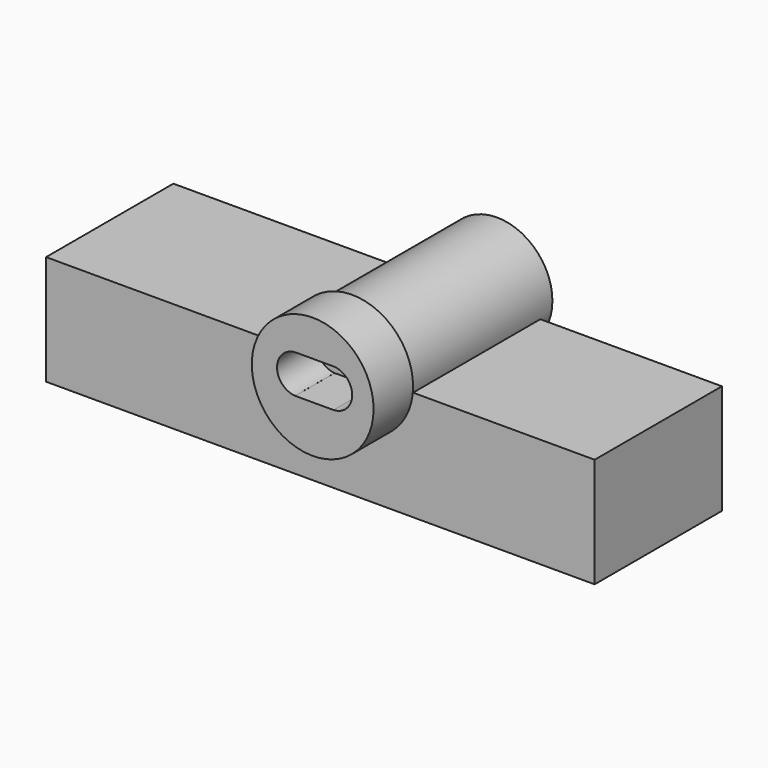
from build123d import *

# Parameters (mm, degrees)
BOX008_W               = 100
BOX008_H               = 29
BOX008_DEPTH           = 20
CYLINDER002_R          = 3.5
CYLINDER002_DEPTH      = 12
CYLINDER002_ROLL_ANGLE = 90
CYLINDER003_R          = 3.5
CYLINDER003_DEPTH      = 12
CYLINDER003_ROLL_ANGLE = 90
BOX009_W               = 7
BOX009_H               = 12
BOX009_DEPTH           = 7
BOX002_W               = 8.6
BOX002_H               = 8
BOX002_DEPTH           = 2.5
BOX001_W               = 15
BOX001_H               = 19
BOX001_DEPTH           = 1.8
BOX004_W               = 10
BOX004_H               = 15
BOX004_DEPTH           = 3
BOX003_W               = 15
BOX003_H               = 6
BOX003_DEPTH           = 3
BOX_W                  = 15
BOX_H                  = 27
BOX_DEPTH              = 1.8
BOX007_W               = 2.5
BOX007_H               = 6
BOX007_DEPTH           = 1
BOX005_W               = 15
BOX005_H               = 6
BOX005_DEPTH           = 3
BOX006_W               = 2.5
BOX006_H               = 6
BOX006_DEPTH           = 1
CYLINDER_R             = 10.1
CYLINDER_DEPTH         = 33
CYLINDER_ROLL_ANGLE    = -90
CYLINDER001_R          = 11.1
CYLINDER001_DEPTH      = 9
CYLINDER001_ROLL_ANGLE = -90
BOX022_W               = 100
BOX022_H               = 29
BOX022_DEPTH           = 20
BOX012_W               = 100
BOX012_H               = 100
BOX012_DEPTH           = 40
BOX010_W               = 100
BOX010_H               = 100
BOX010_DEPTH           = 40
BOX011_W               = 100
BOX011_H               = 29
BOX011_DEPTH           = 20
CYLINDER004_R          = 3.5
CYLINDER004_DEPTH      = 12
CYLINDER004_ROLL_ANGLE = 90
CYLINDER007_R          = 3.5
CYLINDER007_DEPTH      = 12
CYLINDER007_ROLL_ANGLE = 90
BOX023_W               = 20
BOX023_H               = 12
BOX023_DEPTH           = 7
BOX016_W               = 8.6
BOX016_H               = 8
BOX016_DEPTH           = 2.5
BOX015_W               = 15
BOX015_H               = 19
BOX015_DEPTH           = 1.8
BOX018_W               = 10
BOX018_H               = 15
BOX018_DEPTH           = 3
BOX017_W               = 15
BOX017_H               = 6
BOX017_DEPTH           = 3
BOX014_W               = 15
BOX014_H               = 27
BOX014_DEPTH           = 1.8
BOX021_W               = 2.5
BOX021_H               = 6
BOX021_DEPTH           = 1
BOX019_W               = 15
BOX019_H               = 6
BOX019_DEPTH           = 3
BOX020_W               = 2.5
BOX020_H               = 6
BOX020_DEPTH           = 1
CYLINDER005_R          = 10.1
CYLINDER005_DEPTH      = 33
CYLINDER005_ROLL_ANGLE = -90
CYLINDER006_R          = 11.1
CYLINDER006_DEPTH      = 10
CYLINDER006_ROLL_ANGLE = -90


with BuildPart() as box008:
    # Box008 → Box008 (new body)
    with BuildSketch(Plane(origin=(-50, 1, -20), x_dir=(1, 0, 0), z_dir=(0, 0, 1))):
        with Locations((50, 14.5)):
            Rectangle(BOX008_W, BOX008_H)
    extrude(amount=BOX008_DEPTH)


with BuildPart() as cylinder002:
    # Cylinder002 → Cylinder002 (new body)
    with BuildSketch(Plane.XY):
        Circle(CYLINDER002_R)
    extrude(amount=CYLINDER002_DEPTH)


with BuildPart() as cylinder002_1:
    # Cylinder002 roll: moved
    add(cylinder002.part.rotate(Axis((0, 0, 0), (1, 0, 0)), CYLINDER002_ROLL_ANGLE))


with BuildPart() as cylinder002_2:
    # Cylinder002 placement: moved
    add(cylinder002_1.part.moved(Location((4, 0, 3))))


with BuildPart() as cylinder003:
    # Cylinder003 → Cylinder003 (new body)
    with BuildSketch(Plane.XY):
        Circle(CYLINDER003_R)
    extrude(amount=CYLINDER003_DEPTH)


with BuildPart() as cylinder003_1:
    # Cylinder003 roll: moved
    add(cylinder003.part.rotate(Axis((0, 0, 0), (1, 0, 0)), CYLINDER003_ROLL_ANGLE))


with BuildPart() as cylinder003_2:
    # Cylinder003 placement: moved
    add(cylinder003_1.part.moved(Location((10.7, 0, 3))))


with BuildPart() as fusion002:
    # Box009 → Box009 (new body)
    with BuildSketch(Plane(origin=(3.8, -12, -0.5), x_dir=(1, 0, 0), z_dir=(0, 0, 1))):
        with Locations((3.5, 6)):
            Rectangle(BOX009_W, BOX009_H)
    extrude(amount=BOX009_DEPTH)

    # Fusion002: union Cylinder002, Cylinder003
    add(cylinder002_2.part)
    add(cylinder003_2.part)


with BuildPart() as fusion002_1:
    # Fusion002 placement: moved
    add(fusion002.part.moved(Location((0, -0.5, 0))))


with BuildPart() as box002:
    # Box002 → Box002 (new body)
    with BuildSketch(Plane(origin=(3, -2, 1.8), x_dir=(1, 0, 0), z_dir=(0, 0, 1))):
        with Locations((4.3, 4)):
            Rectangle(BOX002_W, BOX002_H)
    extrude(amount=BOX002_DEPTH)


with BuildPart() as box001:
    # Box001 → Box001 (new body)
    with BuildSketch(Plane(origin=(0, 7, 1.8), x_dir=(1, 0, 0), z_dir=(0, 0, 1))):
        with Locations((7.5, 9.5)):
            Rectangle(BOX001_W, BOX001_H)
    extrude(amount=BOX001_DEPTH)


with BuildPart() as box004:
    # Box004 → Box004 (new body)
    with BuildSketch(Plane(origin=(2.5, 22, -3), x_dir=(1, 0, 0), z_dir=(0, 0, 1))):
        with Locations((5, 7.5)):
            Rectangle(BOX004_W, BOX004_H)
    extrude(amount=BOX004_DEPTH)


with BuildPart() as box003:
    # Box003 → Box003 (new body)
    with BuildSketch(Plane(origin=(0, 16, -3), x_dir=(1, 0, 0), z_dir=(0, 0, 1))):
        with Locations((7.5, 3)):
            Rectangle(BOX003_W, BOX003_H)
    extrude(amount=BOX003_DEPTH)


with BuildPart() as box:
    # Box → Box (new body)
    with BuildSketch(Plane.XY):
        with Locations((7.5, 13.5)):
            Rectangle(BOX_W, BOX_H)
    extrude(amount=BOX_DEPTH)


with BuildPart() as box007:
    # Box007 → Box007 (new body)
    with BuildSketch(Plane(origin=(12.5, 0, 1.8), x_dir=(1, 0, 0), z_dir=(0, 0, 1))):
        with Locations((1.25, 3)):
            Rectangle(BOX007_W, BOX007_H)
    extrude(amount=BOX007_DEPTH)


with BuildPart() as box005:
    # Box005 → Box005 (new body)
    with BuildSketch(Plane.XY.offset(-3)):
        with Locations((7.5, 3)):
            Rectangle(BOX005_W, BOX005_H)
    extrude(amount=BOX005_DEPTH)


with BuildPart() as fusion:
    # Box006 → Box006 (new body)
    with BuildSketch(Plane.XY.offset(1.8)):
        with Locations((1.25, 3)):
            Rectangle(BOX006_W, BOX006_H)
    extrude(amount=BOX006_DEPTH)

    # Fusion: union Box002, Box001, Box004, Box003, Box, Box007, Box005
    add(box002.part)
    add(box001.part)
    add(box004.part)
    add(box003.part)
    add(box.part)
    add(box007.part)
    add(box005.part)


with BuildPart() as fusion_1:
    # Fusion placement: moved
    add(fusion.part.moved(Location((0, 1, 0))))


with BuildPart() as cylinder:
    # Cylinder → Cylinder (new body)
    with BuildSketch(Plane.XY):
        Circle(CYLINDER_R)
    extrude(amount=CYLINDER_DEPTH)


with BuildPart() as cylinder_1:
    # Cylinder roll: moved
    add(cylinder.part.rotate(Axis((0, 0, 0), (1, 0, 0)), CYLINDER_ROLL_ANGLE))


with BuildPart() as cylinder_2:
    # Cylinder placement: moved
    add(cylinder_1.part.moved(Location((7, -0.5, 2))))


with BuildPart() as cut002:
    # Cylinder001 → Cylinder001 (new body)
    with BuildSketch(Plane.XY):
        Circle(CYLINDER001_R)
    extrude(amount=CYLINDER001_DEPTH)


with BuildPart() as cut002_1:
    # Cylinder001 roll: moved
    add(cut002.part.rotate(Axis((0, 0, 0), (1, 0, 0)), CYLINDER001_ROLL_ANGLE))


with BuildPart() as cut002_2:
    # Cylinder001 placement: moved
    add(cut002_1.part.moved(Location((7, -9.5, 2))))

    # Fusion001: union Cylinder
    add(cylinder_2.part)

    # Cut: cut Fusion
    add(fusion_1.part, mode=Mode.SUBTRACT)

    # Cut001: cut Fusion002
    add(fusion002_1.part, mode=Mode.SUBTRACT)

    # Cut002: cut Box008
    add(box008.part, mode=Mode.SUBTRACT)


with BuildPart() as box022:
    # Box022 → Box022 (new body)
    with BuildSketch(Plane(origin=(-50, 1, -20), x_dir=(1, 0, 0), z_dir=(0, 0, 1))):
        with Locations((50, 14.5)):
            Rectangle(BOX022_W, BOX022_H)
    extrude(amount=BOX022_DEPTH)


with BuildPart() as box012:
    # Box012 → Box012 (new body)
    with BuildSketch(Plane(origin=(-50, 30, -20), x_dir=(1, 0, 0), z_dir=(0, 0, 1))):
        with Locations((50, 50)):
            Rectangle(BOX012_W, BOX012_H)
    extrude(amount=BOX012_DEPTH)


with BuildPart() as box010:
    # Box010 → Box010 (new body)
    with BuildSketch(Plane(origin=(-50, -99, -20), x_dir=(1, 0, 0), z_dir=(0, 0, 1))):
        with Locations((50, 50)):
            Rectangle(BOX010_W, BOX010_H)
    extrude(amount=BOX010_DEPTH)


with BuildPart() as fusion007:
    # Box011 → Box011 (new body)
    with BuildSketch(Plane(origin=(-50, 1, 0), x_dir=(1, 0, 0), z_dir=(0, 0, 1))):
        with Locations((50, 14.5)):
            Rectangle(BOX011_W, BOX011_H)
    extrude(amount=BOX011_DEPTH)

    # Fusion007: union Box012, Box010
    add(box012.part)
    add(box010.part)


with BuildPart() as cylinder004:
    # Cylinder004 → Cylinder004 (new body)
    with BuildSketch(Plane.XY):
        Circle(CYLINDER004_R)
    extrude(amount=CYLINDER004_DEPTH)


with BuildPart() as cylinder004_1:
    # Cylinder004 roll: moved
    add(cylinder004.part.rotate(Axis((0, 0, 0), (1, 0, 0)), CYLINDER004_ROLL_ANGLE))


with BuildPart() as cylinder004_2:
    # Cylinder004 placement: moved
    add(cylinder004_1.part.moved(Location((4, 0, 3))))


with BuildPart() as cylinder007:
    # Cylinder007 → Cylinder007 (new body)
    with BuildSketch(Plane.XY):
        Circle(CYLINDER007_R)
    extrude(amount=CYLINDER007_DEPTH)


with BuildPart() as cylinder007_1:
    # Cylinder007 roll: moved
    add(cylinder007.part.rotate(Axis((0, 0, 0), (1, 0, 0)), CYLINDER007_ROLL_ANGLE))


with BuildPart() as cylinder007_2:
    # Cylinder007 placement: moved
    add(cylinder007_1.part.moved(Location((10.7, 0, 3))))


with BuildPart() as fusion006:
    # Box023 → Box023 (new body)
    with BuildSketch(Plane(origin=(3.8, -12, -0.5), x_dir=(1, 0, 0), z_dir=(0, 0, 1))):
        with Locations((10, 6)):
            Rectangle(BOX023_W, BOX023_H)
    extrude(amount=BOX023_DEPTH)

    # Fusion006: union Cylinder004, Cylinder007
    add(cylinder004_2.part)
    add(cylinder007_2.part)


with BuildPart() as fusion006_1:
    # Fusion006 placement: moved
    add(fusion006.part.moved(Location((0, -0.5, 0))))


with BuildPart() as box016:
    # Box016 → Box016 (new body)
    with BuildSketch(Plane(origin=(3, -2, 1.8), x_dir=(1, 0, 0), z_dir=(0, 0, 1))):
        with Locations((4.3, 4)):
            Rectangle(BOX016_W, BOX016_H)
    extrude(amount=BOX016_DEPTH)


with BuildPart() as box015:
    # Box015 → Box015 (new body)
    with BuildSketch(Plane(origin=(0, 7, 1.8), x_dir=(1, 0, 0), z_dir=(0, 0, 1))):
        with Locations((7.5, 9.5)):
            Rectangle(BOX015_W, BOX015_H)
    extrude(amount=BOX015_DEPTH)


with BuildPart() as box018:
    # Box018 → Box018 (new body)
    with BuildSketch(Plane(origin=(2.5, 22, -3), x_dir=(1, 0, 0), z_dir=(0, 0, 1))):
        with Locations((5, 7.5)):
            Rectangle(BOX018_W, BOX018_H)
    extrude(amount=BOX018_DEPTH)


with BuildPart() as box017:
    # Box017 → Box017 (new body)
    with BuildSketch(Plane(origin=(0, 16, -3), x_dir=(1, 0, 0), z_dir=(0, 0, 1))):
        with Locations((7.5, 3)):
            Rectangle(BOX017_W, BOX017_H)
    extrude(amount=BOX017_DEPTH)


with BuildPart() as box014:
    # Box014 → Box014 (new body)
    with BuildSketch(Plane.XY):
        with Locations((7.5, 13.5)):
            Rectangle(BOX014_W, BOX014_H)
    extrude(amount=BOX014_DEPTH)


with BuildPart() as box021:
    # Box021 → Box021 (new body)
    with BuildSketch(Plane(origin=(12.5, 0, 1.8), x_dir=(1, 0, 0), z_dir=(0, 0, 1))):
        with Locations((1.25, 3)):
            Rectangle(BOX021_W, BOX021_H)
    extrude(amount=BOX021_DEPTH)


with BuildPart() as box019:
    # Box019 → Box019 (new body)
    with BuildSketch(Plane.XY.offset(-3)):
        with Locations((7.5, 3)):
            Rectangle(BOX019_W, BOX019_H)
    extrude(amount=BOX019_DEPTH)


with BuildPart() as fusion005:
    # Box020 → Box020 (new body)
    with BuildSketch(Plane.XY.offset(1.8)):
        with Locations((1.25, 3)):
            Rectangle(BOX020_W, BOX020_H)
    extrude(amount=BOX020_DEPTH)

    # Fusion005: union Box016, Box015, Box018, Box017, Box014, Box021, Box019
    add(box016.part)
    add(box015.part)
    add(box018.part)
    add(box017.part)
    add(box014.part)
    add(box021.part)
    add(box019.part)


with BuildPart() as fusion005_1:
    # Fusion005 placement: moved
    add(fusion005.part.moved(Location((0, 1, 0))))


with BuildPart() as cylinder005:
    # Cylinder005 → Cylinder005 (new body)
    with BuildSketch(Plane.XY):
        Circle(CYLINDER005_R)
    extrude(amount=CYLINDER005_DEPTH)


with BuildPart() as cylinder005_1:
    # Cylinder005 roll: moved
    add(cylinder005.part.rotate(Axis((0, 0, 0), (1, 0, 0)), CYLINDER005_ROLL_ANGLE))


with BuildPart() as cylinder005_2:
    # Cylinder005 placement: moved
    add(cylinder005_1.part.moved(Location((7, -0.5, 2))))


with BuildPart() as cut005:
    # Cylinder006 → Cylinder006 (new body)
    with BuildSketch(Plane.XY):
        Circle(CYLINDER006_R)
    extrude(amount=CYLINDER006_DEPTH)


with BuildPart() as cut005_1:
    # Cylinder006 roll: moved
    add(cut005.part.rotate(Axis((0, 0, 0), (1, 0, 0)), CYLINDER006_ROLL_ANGLE))


with BuildPart() as cut005_2:
    # Cylinder006 placement: moved
    add(cut005_1.part.moved(Location((7, -10.5, 2))))

    # Fusion004: union Cylinder005
    add(cylinder005_2.part)

    # Cut003: cut Fusion005
    add(fusion005_1.part, mode=Mode.SUBTRACT)

    # Cut004: cut Fusion006
    add(fusion006_1.part, mode=Mode.SUBTRACT)

    # Cut005: cut Fusion007
    add(fusion007.part, mode=Mode.SUBTRACT)


solid = Compound([cut002_2.part, box022.part, cut005_2.part])
